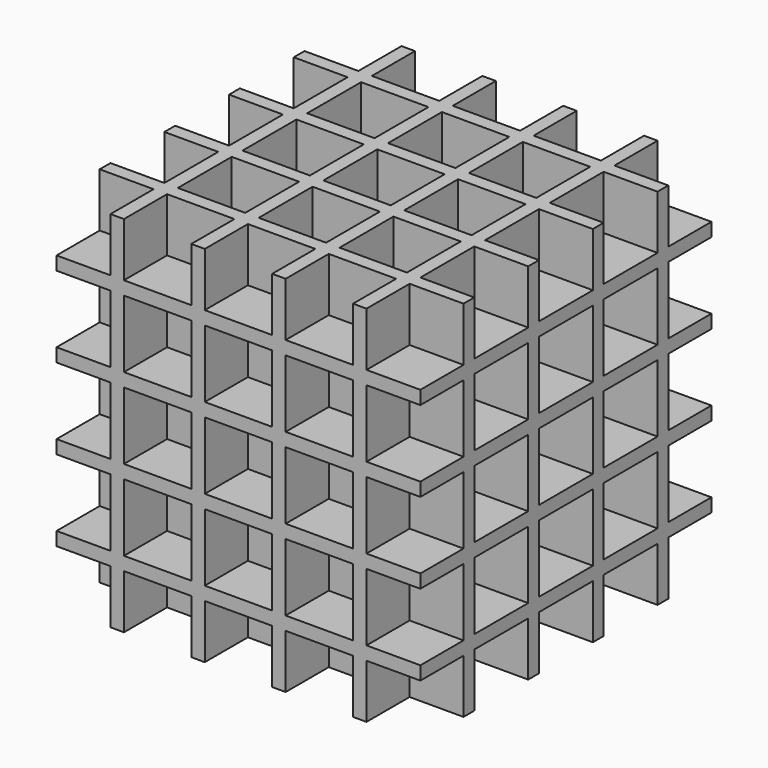
from build123d import *

# Parameters (mm, degrees)
BOX005_W         = 10
BOX005_H         = 10
BOX005_DEPTH     = 10
ARRAY003_X_COUNT = 5
ARRAY003_X_PITCH = 12
ARRAY003_Y_COUNT = 5
ARRAY003_Y_PITCH = 12
ARRAY003_Z_COUNT = 5
ARRAY003_Z_PITCH = 12
BOX006_W         = 54
BOX006_H         = 54
BOX006_DEPTH     = 54


with BuildPart() as array003:
    # Box005 → Box005 (new body)
    with BuildSketch(Plane.XY):
        with Locations((5, 5)):
            Rectangle(BOX005_W, BOX005_H)
    extrude(amount=BOX005_DEPTH)

    # Array003 X: Array003 ×5


with BuildPart() as array003_1:
    add(array003.part)
    with Locations(*[(i * ARRAY003_X_PITCH, 0, 0) for i in range(1, ARRAY003_X_COUNT)]):
        add(array003.part)

    # Array003 Y: Array003 ×5


with BuildPart() as array003_2:
    add(array003_1.part)
    with Locations(*[(0, i * ARRAY003_Y_PITCH, 0) for i in range(1, ARRAY003_Y_COUNT)]):
        add(array003_1.part)

    # Array003 Z: Array003 ×5


with BuildPart() as array003_3:
    add(array003_2.part)
    with Locations(*[(0, 0, i * ARRAY003_Z_PITCH) for i in range(1, ARRAY003_Z_COUNT)]):
        add(array003_2.part)


with BuildPart() as cut002:
    # Box006 → Box006 (new body)
    with BuildSketch(Plane(origin=(2, 2, 2), x_dir=(1, 0, 0), z_dir=(0, 0, 1))):
        with Locations((27, 27)):
            Rectangle(BOX006_W, BOX006_H)
    extrude(amount=BOX006_DEPTH)

    # Cut002: cut Array003
    add(array003_3.part, mode=Mode.SUBTRACT)


solid = cut002.part
